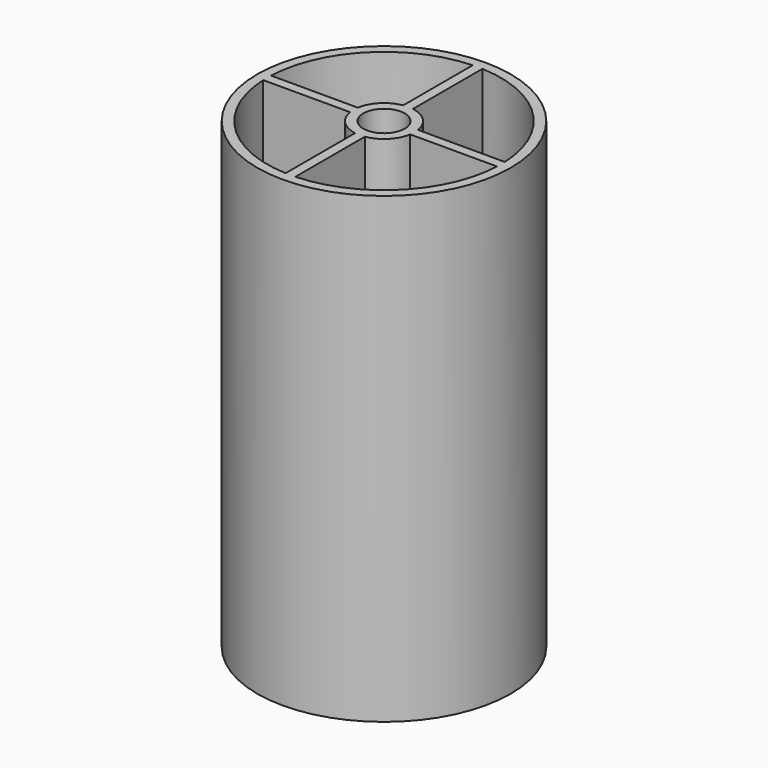
from build123d import *

# Parameters (mm, degrees)
F0_R     = 26
F0_R_2   = 4.25
F1_DEPTH = 95


with BuildPart() as f1:
    # F0 (on Top) → F1 (new body)
    with BuildSketch(Plane.XY):
        Circle(F0_R)
        with BuildLine():
            ThreePointArc((1, 23.9791576166), (16.9705627485, 16.9705627485), (23.9791576166, 1))
            Line((23.9791576166, 1), (25, 1))
            Line((25, 1), (25, -1))
            Line((25, -1), (23.9791576166, -1))
            ThreePointArc((23.9791576166, -1), (16.9705627485, -16.9705627485), (1, -23.9791576166))
            Line((1, -23.9791576166), (1, -25))
            Line((1, -25), (-1, -25))
            Line((-1, -25), (-1, -23.9791576166))
            ThreePointArc((-1, -23.9791576166), (-16.9705627485, -16.9705627485), (-23.9791576166, -1))
            Line((-23.9791576166, -1), (-25, -1))
            Line((-25, -1), (-25, 1))
            Line((-25, 1), (-23.9791576166, 1))
            ThreePointArc((-23.9791576166, 1), (-16.9705627485, 16.9705627485), (-1, 23.9791576166))
            Line((-1, 23.9791576166), (-1, 25))
            Line((-1, 25), (1, 25))
            Line((1, 25), (1, 23.9791576166))
        make_face(mode=Mode.SUBTRACT)
        with BuildLine():
            ThreePointArc((-23.9791576166, -1), (-24, 0), (-23.9791576166, 1))
            Line((-23.9791576166, 1), (-25, 1))
            Line((-25, 1), (-25, -1))
            Line((-25, -1), (-23.9791576166, -1))
        make_face()
        with BuildLine():
            Line((1, -25), (1, -23.9791576166))
            ThreePointArc((1, -23.9791576166), (0, -24), (-1, -23.9791576166))
            Line((-1, -23.9791576166), (-1, -25))
            Line((-1, -25), (1, -25))
        make_face()
        with BuildLine():
            ThreePointArc((-1, -23.9791576166), (0, -24), (1, -23.9791576166))
            Line((1, -23.9791576166), (1, -6.1694813396))
            ThreePointArc((1, -6.1694813396), (0, -6.25), (-1, -6.1694813396))
            Line((-1, -6.1694813396), (-1, -23.9791576166))
        make_face()
        with BuildLine():
            Line((-6.1694813396, 1), (-23.9791576166, 1))
            ThreePointArc((-23.9791576166, 1), (-24, 0), (-23.9791576166, -1))
            Line((-23.9791576166, -1), (-6.1694813396, -1))
            ThreePointArc((-6.1694813396, -1), (-6.25, 0), (-6.1694813396, 1))
        make_face()
        with BuildLine():
            Line((-5, 1), (-6.1694813396, 1))
            ThreePointArc((-6.1694813396, 1), (-6.25, 0), (-6.1694813396, -1))
            Line((-6.1694813396, -1), (-5, -1))
            Line((-5, -1), (-5, 1))
        make_face()
        with BuildLine():
            ThreePointArc((23.9791576166, -1), (23.9947888384, -0.5001085894), (24, 0))
            ThreePointArc((24, 0), (23.9947888384, 0.5001085894), (23.9791576166, 1))
            Line((23.9791576166, 1), (6.1694813396, 1))
            ThreePointArc((6.1694813396, 1), (6.2298378138, 0.5016181951), (6.25, 0))
            ThreePointArc((6.25, 0), (6.2298378138, -0.5016181951), (6.1694813396, -1))
            Line((6.1694813396, -1), (23.9791576166, -1))
        make_face()
        with BuildLine():
            ThreePointArc((23.9791576166, 1), (23.9947888384, 0.5001085894), (24, 0))
            ThreePointArc((24, 0), (23.9947888384, -0.5001085894), (23.9791576166, -1))
            Line((23.9791576166, -1), (25, -1))
            Line((25, -1), (25, 1))
            Line((25, 1), (23.9791576166, 1))
        make_face()
        with BuildLine():
            Line((1, 6.1694813396), (1, 23.9791576166))
            ThreePointArc((1, 23.9791576166), (0, 24), (-1, 23.9791576166))
            Line((-1, 23.9791576166), (-1, 6.1694813396))
            ThreePointArc((-1, 6.1694813396), (0, 6.25), (1, 6.1694813396))
        make_face()
        with BuildLine():
            ThreePointArc((-1, 23.9791576166), (0, 24), (1, 23.9791576166))
            Line((1, 23.9791576166), (1, 25))
            Line((1, 25), (-1, 25))
            Line((-1, 25), (-1, 23.9791576166))
        make_face()
        with BuildLine():
            Line((1, 5), (1, 6.1694813396))
            ThreePointArc((1, 6.1694813396), (0, 6.25), (-1, 6.1694813396))
            Line((-1, 6.1694813396), (-1, 5))
            Line((-1, 5), (1, 5))
        make_face()
        with BuildLine():
            ThreePointArc((6.25, 0), (6.2298378138, 0.5016181951), (6.1694813396, 1))
            Line((6.1694813396, 1), (5, 1))
            Line((5, 1), (5, -1))
            Line((5, -1), (6.1694813396, -1))
            ThreePointArc((6.1694813396, -1), (6.2298378138, -0.5016181951), (6.25, 0))
        make_face()
        with BuildLine():
            Line((5, 1), (6.1694813396, 1))
            ThreePointArc((6.1694813396, 1), (4.4194173824, 4.4194173824), (1, 6.1694813396))
            Line((1, 6.1694813396), (1, 5))
            Line((1, 5), (-1, 5))
            Line((-1, 5), (-1, 6.1694813396))
            ThreePointArc((-1, 6.1694813396), (-4.4194173824, 4.4194173824), (-6.1694813396, 1))
            Line((-6.1694813396, 1), (-5, 1))
            Line((-5, 1), (-5, -1))
            Line((-5, -1), (-6.1694813396, -1))
            ThreePointArc((-6.1694813396, -1), (-4.4194173824, -4.4194173824), (-1, -6.1694813396))
            Line((-1, -6.1694813396), (-1, -5))
            Line((-1, -5), (1, -5))
            Line((1, -5), (1, -6.1694813396))
            ThreePointArc((1, -6.1694813396), (4.4194173824, -4.4194173824), (6.1694813396, -1))
            Line((6.1694813396, -1), (5, -1))
            Line((5, -1), (5, 1))
        make_face()
        Circle(F0_R_2, mode=Mode.SUBTRACT)
        with BuildLine():
            ThreePointArc((-1, -6.1694813396), (0, -6.25), (1, -6.1694813396))
            Line((1, -6.1694813396), (1, -5))
            Line((1, -5), (-1, -5))
            Line((-1, -5), (-1, -6.1694813396))
        make_face()
    extrude(amount=F1_DEPTH)


solid = f1.part
